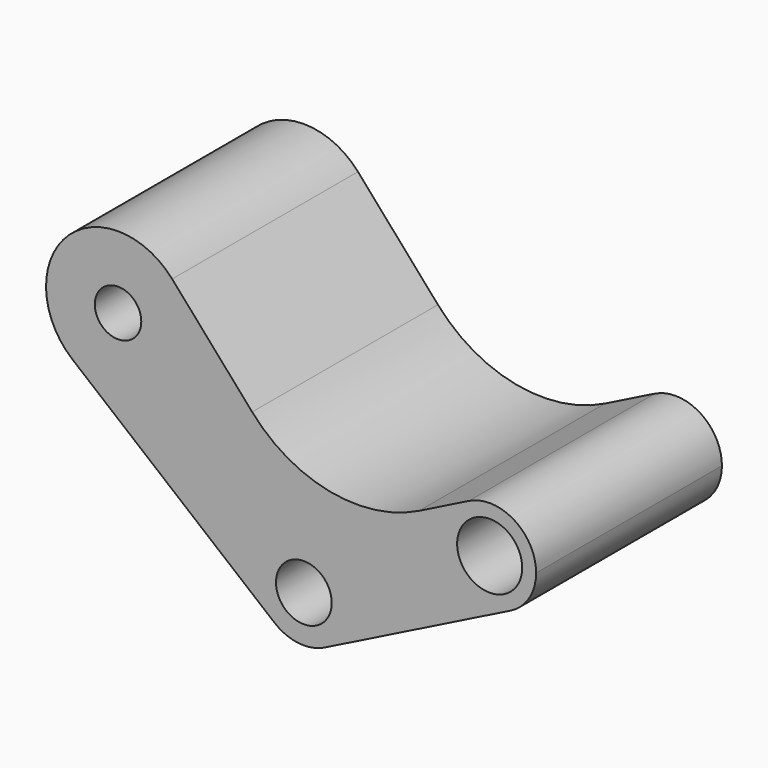
from build123d import *

# Parameters (mm, degrees)
F0_R     = 127
F0_R_2   = 152.4
F0_R_3   = 177.8
F1_DEPTH = 635


with BuildPart() as f1:
    # F0 (on Front) → F1 (new body, symmetric)
    with BuildSketch(Plane.XZ):
        with BuildLine():
            ThreePointArc((-720.222129, 1275.836758), (-1298.913656, 1289.787423), (-1266.002122, 711.864128))
            ThreePointArc((-1266.002122, 711.864128), (-847.812821, 660.032638), (-622.3, 1016))
            ThreePointArc((-622.3, 1016), (-647.592998, 1154.837931), (-720.222129, 1275.836758))
        make_face()
        with Locations((-1016, 1016)):
            Circle(F0_R, mode=Mode.SUBTRACT)
        with BuildLine():
            ThreePointArc((-161.291692, -196.216692), (-108.507857, 229.656363), (254, 0))
            ThreePointArc((254, 0), (216.065305, -133.535702), (113.592253, -227.184507))
            Line((113.592253, -227.184507), (1129.592253, 280.815493))
            ThreePointArc((1129.592253, 280.815493), (788.815493, 394.407747), (902.407747, 735.184507))
            Line((902.407747, 735.184507), (630.48683, 599.224048))
            ThreePointArc((630.48683, 599.224048), (143.425378, 532.950858), (-282.763228, 777.867713))
            Line((-282.763228, 777.867713), (-720.222129, 1275.836758))
            ThreePointArc((-720.222129, 1275.836758), (-647.592998, 1154.837931), (-622.3, 1016))
            ThreePointArc((-622.3, 1016), (-847.812821, 660.032638), (-1266.002122, 711.864128))
            Line((-1266.002122, 711.864128), (-161.291692, -196.216692))
        make_face()
        with BuildLine():
            ThreePointArc((113.592253, -227.184507), (216.065305, -133.535702), (254, 0))
            ThreePointArc((254, 0), (-108.507857, 229.656363), (-161.291692, -196.216692))
            ThreePointArc((-161.291692, -196.216692), (-28.435198, -252.403327), (113.592253, -227.184507))
        make_face()
        Circle(F0_R_2, mode=Mode.SUBTRACT)
        with BuildLine():
            ThreePointArc((902.407747, 735.184507), (788.815493, 394.407747), (1129.592253, 280.815493))
            ThreePointArc((1129.592253, 280.815493), (1232.065305, 374.464298), (1270, 508))
            ThreePointArc((1270, 508), (1149.535702, 724.065305), (902.407747, 735.184507))
        make_face()
        with Locations((1016, 508)):
            Circle(F0_R_3, mode=Mode.SUBTRACT)
    extrude(amount=F1_DEPTH, both=True)


solid = f1.part
